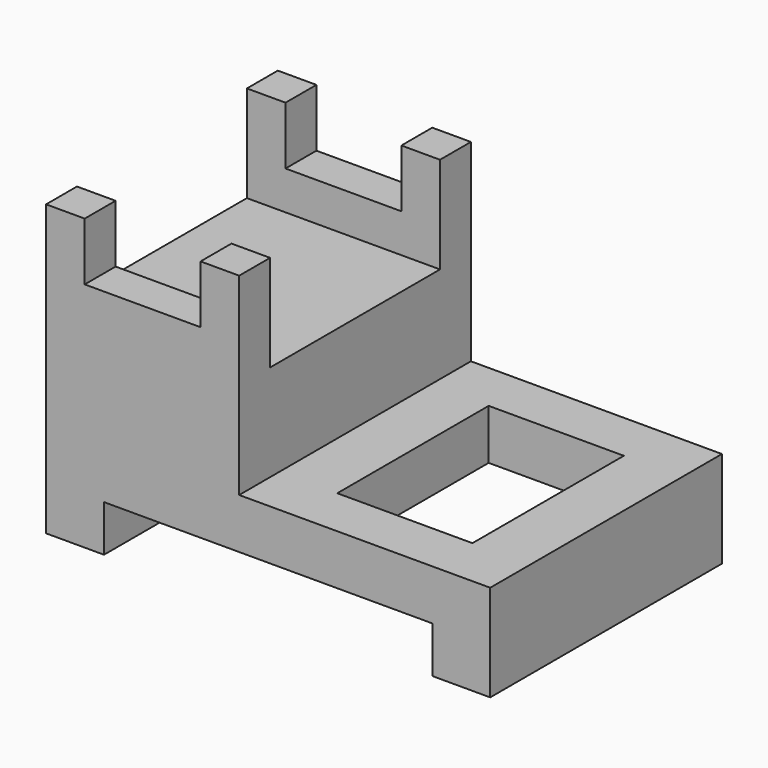
from build123d import *

# Parameters (mm, degrees)
F0_W      = 115
F0_H      = 75
F1_DEPTH  = 25
F2_DEPTH  = 75
F4_DEPTH  = 75.001
F6_DEPTH  = 50
F7_W      = 55
F7_H      = 25
F8_DEPTH  = 50.001
F9_W      = 35
F9_H      = 49
F10_DEPTH = 25.001
F11_W     = 30
F11_H     = 10
F12_DEPTH = 15
F13_W     = 30
F13_H     = 10
F14_DEPTH = 15


with BuildPart() as f1:
    # F0 (on Top) → F1 (new body)
    with BuildSketch(Plane.XY):
        with Locations((2.0555268228, -8.5665475577)):
            Rectangle(F0_W, F0_H)
    extrude(amount=F1_DEPTH)

    # F0 (on Top) → F2 (join)
    with BuildSketch(Plane.XY):
        with Locations((2.0555268228, -8.5665475577)):
            Rectangle(F0_W, F0_H)
    extrude(amount=F2_DEPTH)

    # F3 (on face) → F4 (cut, through all)
    with BuildSketch(Plane.XZ.offset(46.0665475577)):
        Polygon((-40.4444731772, 12), (-40.4444731772, 0), (-1.3980267197, 0), (44.5555268228, 0), (44.5555268228, 12), align=None)
    extrude(amount=-F4_DEPTH, mode=Mode.SUBTRACT)

    # F5 (on face) → F6 (cut)
    with BuildSketch(Plane.XY.offset(75)):
        Polygon((59.5555268228, 28.9334524423), (-5.4444731772, 28.9334524423), (-5.4444731772, 18.9334524423), (-5.4444731772, -36.0665475577), (-5.4444731772, -46.0665475577), (59.5555268228, -46.0665475577), align=None)
    extrude(amount=-F6_DEPTH, mode=Mode.SUBTRACT)

    # F7 (on face) → F8 (cut, through all)
    with BuildSketch(Plane.YZ.offset(-5.4444731772)):
        with Locations((-8.5665475577, 62.5)):
            Rectangle(F7_W, F7_H)
    extrude(amount=-F8_DEPTH, mode=Mode.SUBTRACT)

    # F9 (on face) → F10 (cut, through all)
    with BuildSketch(Plane.XY.offset(25)):
        with Locations((27.0555268228, -8.5665475577)):
            Rectangle(F9_W, F9_H)
    extrude(amount=-F10_DEPTH, mode=Mode.SUBTRACT)

    # F11 (on face) → F12 (cut)
    with BuildSketch(Plane.XY.offset(75)):
        with Locations((-30.4444731772, 23.9334524423)):
            Rectangle(F11_W, F11_H)
    extrude(amount=-F12_DEPTH, mode=Mode.SUBTRACT)

    # F13 (on face) → F14 (cut)
    with BuildSketch(Plane.XY.offset(75)):
        with Locations((-30.4444731772, -41.0665475577)):
            Rectangle(F13_W, F13_H)
    extrude(amount=-F14_DEPTH, mode=Mode.SUBTRACT)


solid = f1.part
